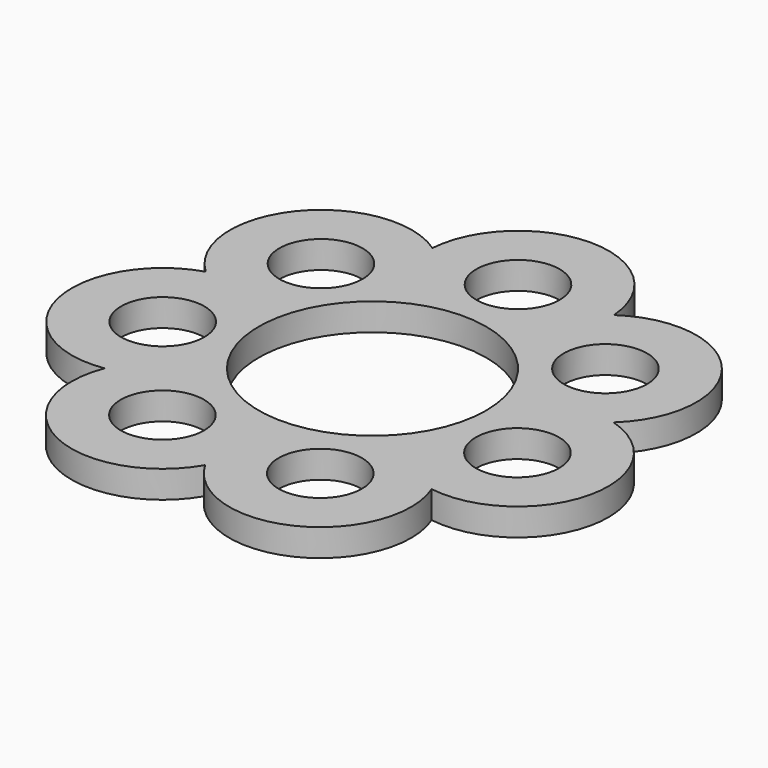
from build123d import *

# Parameters (mm, degrees)
F0_R     = 4.58
F0_R_2   = 12.5
F1_DEPTH = 3


with BuildPart() as f1:
    # F0 (on Top) → F1 (new body)
    with BuildSketch(Plane.XY):
        with BuildLine():
            ThreePointArc((22.412697, 5.115552), (23.454944, 18.704694), (9.974589, 20.712447))
            ThreePointArc((9.974589, 20.712447), (0, 30), (-9.974589, 20.712447))
            ThreePointArc((-9.974589, 20.712447), (-23.454944, 18.704694), (-22.412697, 5.115552))
            ThreePointArc((-22.412697, 5.115552), (-29.247837, -6.675628), (-17.973588, -14.333458))
            ThreePointArc((-17.973588, -14.333458), (-13.016512, -27.029066), (0, -22.989082))
            ThreePointArc((0, -22.989082), (13.016512, -27.029066), (17.973588, -14.333458))
            ThreePointArc((17.973588, -14.333458), (29.247837, -6.675628), (22.412697, 5.115552))
        make_face()
        with Locations((-8.677675, -18.019377)):
            Circle(F0_R, mode=Mode.SUBTRACT)
        with Locations((-19.498558, -4.450419)):
            Circle(F0_R, mode=Mode.SUBTRACT)
        with Locations((8.677675, -18.019377)):
            Circle(F0_R, mode=Mode.SUBTRACT)
        Circle(F0_R_2, mode=Mode.SUBTRACT)
        with Locations((19.498558, -4.450419)):
            Circle(F0_R, mode=Mode.SUBTRACT)
        with Locations((-15.63663, 12.469796)):
            Circle(F0_R, mode=Mode.SUBTRACT)
        with Locations((15.63663, 12.469796)):
            Circle(F0_R, mode=Mode.SUBTRACT)
        with Locations((0, 20)):
            Circle(F0_R, mode=Mode.SUBTRACT)
    extrude(amount=F1_DEPTH)


solid = f1.part
